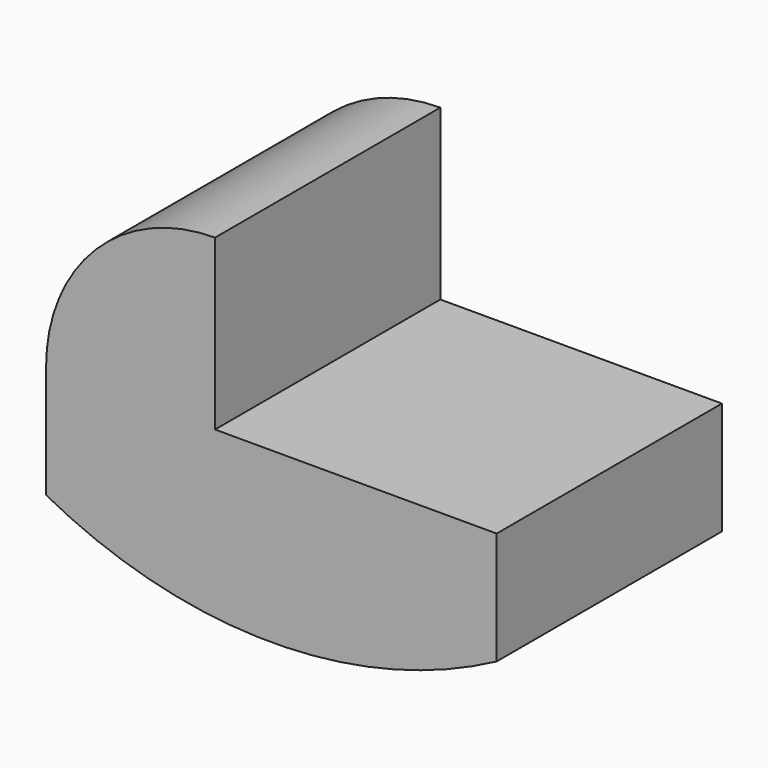
from build123d import *

# Parameters (mm, degrees)
F1_DEPTH = 25


with BuildPart() as f1:
    # F0 (on Front) → F1 (new body, symmetric)
    with BuildSketch(Plane.XZ):
        with BuildLine():
            Line((50, 0), (0, 0))
            Line((0, 0), (0, 30))
            ThreePointArc((0, 30), (-21.213203, 21.213203), (-30, 0))
            Line((-30, 0), (-30, -20))
            ThreePointArc((-30, -20), (10, -30), (50, -20))
            Line((50, -20), (50, 0))
        make_face()
    extrude(amount=F1_DEPTH, both=True)


solid = f1.part
